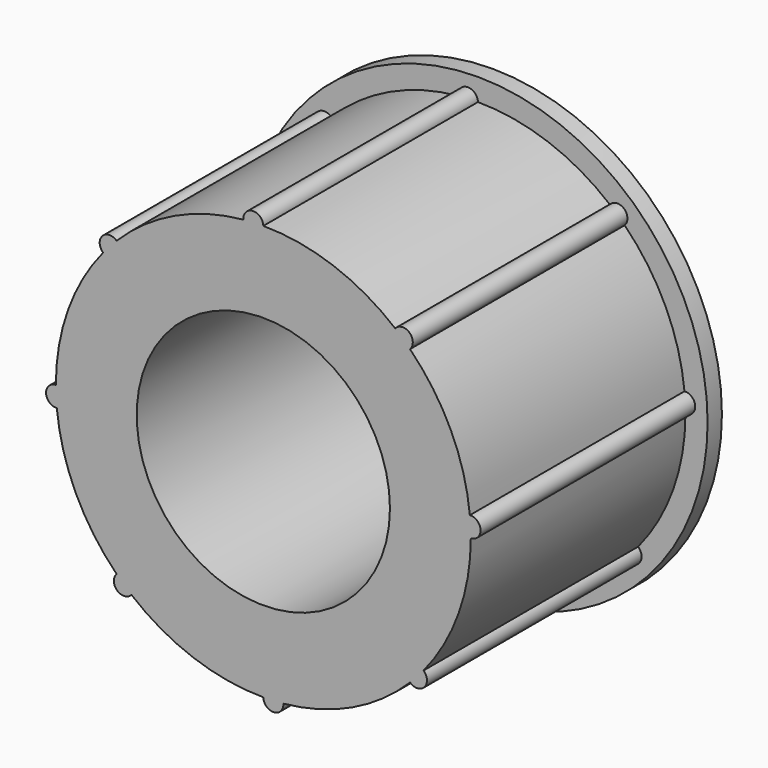
from build123d import *

# Parameters (mm, degrees)
F0_R     = 22.479
F1_DEPTH = 50.8
F0_R_2   = 40.767
F2_DEPTH = 3.175


with BuildPart() as f1:
    # F0 (on Front) → F1 (new body)
    with BuildSketch(Plane.XZ):
        with BuildLine():
            ThreePointArc((28.432235, -23.410615), (34.667046, -12.435628), (36.83, 0))
            ThreePointArc((36.83, 0), (36.787083, 1.777482), (36.658431, 3.550821))
            ThreePointArc((36.658431, 3.550821), (33.30662, 15.719986), (26.042743, 26.042743))
            ThreePointArc((26.042743, 26.042743), (24.755526, 27.269265), (23.410615, 28.432235))
            ThreePointArc((23.410615, 28.432235), (12.435628, 34.667046), (0, 36.83))
            ThreePointArc((0, 36.83), (-1.777482, 36.787083), (-3.550821, 36.658431))
            ThreePointArc((-3.550821, 36.658431), (-15.719986, 33.30662), (-26.042743, 26.042743))
            ThreePointArc((-26.042743, 26.042743), (-27.269265, 24.755526), (-28.432235, 23.410615))
            ThreePointArc((-28.432235, 23.410615), (-34.667046, 12.435628), (-36.83, 0))
            ThreePointArc((-36.83, 0), (-36.787083, -1.777482), (-36.658431, -3.550821))
            ThreePointArc((-36.658431, -3.550821), (-33.30662, -15.719986), (-26.042743, -26.042743))
            ThreePointArc((-26.042743, -26.042743), (-24.755526, -27.269265), (-23.410615, -28.432235))
            ThreePointArc((-23.410615, -28.432235), (-12.435628, -34.667046), (0, -36.83))
            ThreePointArc((0, -36.83), (1.777482, -36.787083), (3.550821, -36.658431))
            ThreePointArc((3.550821, -36.658431), (15.719986, -33.30662), (26.042743, -26.042743))
            ThreePointArc((26.042743, -26.042743), (27.269265, -24.755526), (28.432235, -23.410615))
        make_face()
        Circle(F0_R, mode=Mode.SUBTRACT)
        with BuildLine():
            ThreePointArc((-3.550821, 36.658431), (-1.777482, 36.787083), (0, 36.83))
            ThreePointArc((0, 36.83), (-1.863291, 38.563011), (-3.550821, 36.658431))
        make_face()
        with BuildLine():
            ThreePointArc((-28.432235, 23.410615), (-27.269265, 24.755526), (-26.042743, 26.042743))
            ThreePointArc((-26.042743, 26.042743), (-28.585713, 25.95062), (-28.432235, 23.410615))
        make_face()
        with BuildLine():
            ThreePointArc((-36.83, 0), (-38.563011, -1.863291), (-36.658431, -3.550821))
            ThreePointArc((-36.658431, -3.550821), (-36.787083, -1.777482), (-36.83, 0))
        make_face()
        with BuildLine():
            ThreePointArc((36.658431, 3.550821), (36.787083, 1.777482), (36.83, 0))
            ThreePointArc((36.83, 0), (38.563011, 1.863291), (36.658431, 3.550821))
        make_face()
        with BuildLine():
            ThreePointArc((23.410615, 28.432235), (24.755526, 27.269265), (26.042743, 26.042743))
            ThreePointArc((26.042743, 26.042743), (25.95062, 28.585713), (23.410615, 28.432235))
        make_face()
        with BuildLine():
            ThreePointArc((26.042743, -26.042743), (28.585713, -25.95062), (28.432235, -23.410615))
            ThreePointArc((28.432235, -23.410615), (27.269265, -24.755526), (26.042743, -26.042743))
        make_face()
        with BuildLine():
            ThreePointArc((0, -36.83), (1.863291, -38.563011), (3.550821, -36.658431))
            ThreePointArc((3.550821, -36.658431), (1.777482, -36.787083), (0, -36.83))
        make_face()
        with BuildLine():
            ThreePointArc((-26.042743, -26.042743), (-25.95062, -28.585713), (-23.410615, -28.432235))
            ThreePointArc((-23.410615, -28.432235), (-24.755526, -27.269265), (-26.042743, -26.042743))
        make_face()
    extrude(amount=F1_DEPTH)

    # F0 (on Front) → F2 (join)
    with BuildSketch(Plane.XZ):
        Circle(F0_R_2)
        with BuildLine():
            ThreePointArc((36.658431, 3.550821), (38.563011, 1.863291), (36.83, 0))
            ThreePointArc((36.83, 0), (34.667046, -12.435628), (28.432235, -23.410615))
            ThreePointArc((28.432235, -23.410615), (28.585713, -25.95062), (26.042743, -26.042743))
            ThreePointArc((26.042743, -26.042743), (15.719986, -33.30662), (3.550821, -36.658431))
            ThreePointArc((3.550821, -36.658431), (1.863291, -38.563011), (0, -36.83))
            ThreePointArc((0, -36.83), (-12.435628, -34.667046), (-23.410615, -28.432235))
            ThreePointArc((-23.410615, -28.432235), (-25.95062, -28.585713), (-26.042743, -26.042743))
            ThreePointArc((-26.042743, -26.042743), (-33.30662, -15.719986), (-36.658431, -3.550821))
            ThreePointArc((-36.658431, -3.550821), (-38.563011, -1.863291), (-36.83, 0))
            ThreePointArc((-36.83, 0), (-34.667046, 12.435628), (-28.432235, 23.410615))
            ThreePointArc((-28.432235, 23.410615), (-28.585713, 25.95062), (-26.042743, 26.042743))
            ThreePointArc((-26.042743, 26.042743), (-15.719986, 33.30662), (-3.550821, 36.658431))
            ThreePointArc((-3.550821, 36.658431), (-1.863291, 38.563011), (0, 36.83))
            ThreePointArc((0, 36.83), (12.435628, 34.667046), (23.410615, 28.432235))
            ThreePointArc((23.410615, 28.432235), (25.95062, 28.585713), (26.042743, 26.042743))
            ThreePointArc((26.042743, 26.042743), (33.30662, 15.719986), (36.658431, 3.550821))
        make_face(mode=Mode.SUBTRACT)
    extrude(amount=F2_DEPTH)


solid = f1.part
